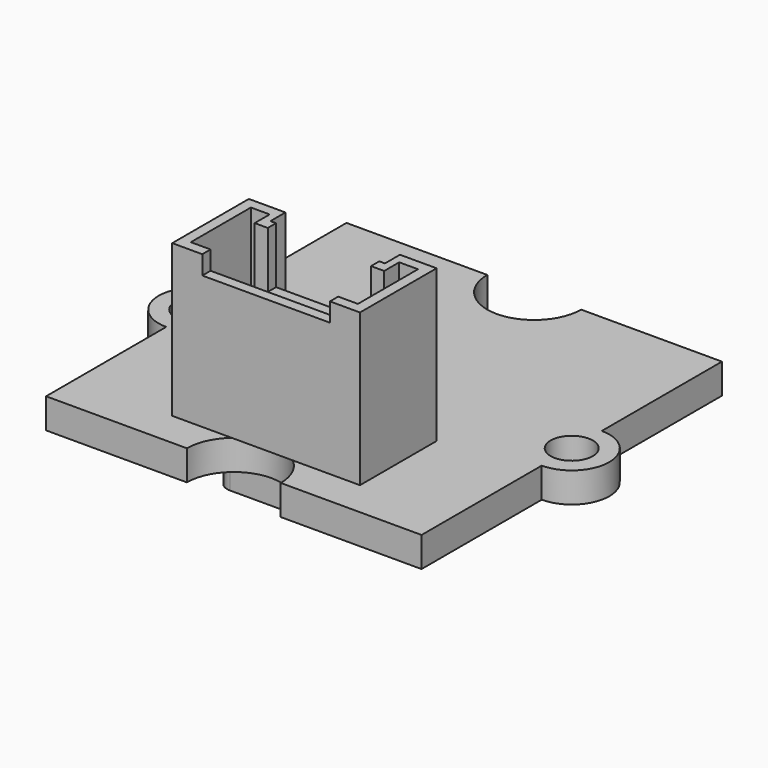
from build123d import *

# Parameters (mm, degrees)
PAD_DEPTH               = 1.6
SKETCH001_R             = 1.125
POCKET_DEPTH            = 1.601
PAD005_DEPTH            = 8.1
POCKET003_DEPTH         = 7
SKETCH010_W             = 6.8
SKETCH010_H             = 5
POCKET004_DEPTH         = 1
SKETCH011_W             = 5.5
SKETCH011_H             = 3
POCKET005_DEPTH         = 3
PAD006_DEPTH            = 4
PAD007_DEPTH            = 3.4
BODY005_PLACEMENT_ANGLE = 180


with BuildPart() as obj1:
    # Sketch → Pad (new body)
    with BuildSketch(Plane.XY):
        with BuildLine():
            Line((-10, 10), (-2.5, 10))
            ThreePointArc((-2.5, 10), (0, 7.5), (2.5, 10))
            Line((2.5, 10), (10, 10))
            Line((10, 10), (10, 2))
            ThreePointArc((10, -2), (12, 0), (10, 2))
            Line((10, -2), (10, -10))
            Line((10, -10), (2.5, -10))
            ThreePointArc((2.5, -10), (0, -7.5), (-2.5, -10))
            Line((-2.5, -10), (-10, -10))
            Line((-10, -10), (-10, -2))
            ThreePointArc((-10, 2), (-12, 0), (-10, -2))
            Line((-10, 10), (-10, 2))
        make_face()
    extrude(amount=PAD_DEPTH)

    # Sketch001 → Pocket (cut, through all)
    with BuildSketch(Plane.XY):
        with Locations((-10, 0)):
            Circle(SKETCH001_R)
        with Locations((10, 0)):
            Circle(SKETCH001_R)
    extrude(amount=POCKET_DEPTH, mode=Mode.SUBTRACT)


with BuildPart() as obj2:
    # Sketch008 → Pad005 (new body)
    with BuildSketch(Plane.XY):
        Polygon((-5, 0), (-3.05, 0), (-3.05, 1), (3.05, 1), (3.05, 0), (5, 0), (5, 5.1), (-5, 5.1), align=None)
    extrude(amount=PAD005_DEPTH)

    # Sketch009 (on Face10 of Pad005) → Pocket003 (cut)
    with BuildSketch(Plane.XY.offset(8.1)):
        Polygon((-4.45, 0.55), (-3.45, 0.55), (-3.45, 1.55), (3.45, 1.55), (3.45, 0.55), (4.45, 0.55), (4.45, 4.55), (-4.45, 4.55), align=None)
    extrude(amount=-POCKET003_DEPTH, mode=Mode.SUBTRACT)

    # Sketch010 (on Face5 of Pocket003) → Pocket004 (cut)
    with BuildSketch(Plane.XY.offset(8.1)):
        with Locations((0, 5.5)):
            Rectangle(SKETCH010_W, SKETCH010_H)
    extrude(amount=-POCKET004_DEPTH, mode=Mode.SUBTRACT)

    # Sketch011 (on Face5 of Pocket004) → Pocket005 (cut)
    with BuildSketch(Plane.XY.offset(8.1)):
        with Locations((0, 1.5)):
            Rectangle(SKETCH011_W, SKETCH011_H)
    extrude(amount=-POCKET005_DEPTH, mode=Mode.SUBTRACT)

    # Sketch012 (on Face26 of Pocket005) → Pad006 (join)
    with BuildSketch(Plane.XY.offset(1.1)):
        with BuildLine():
            ThreePointArc((-3.4, 3.25), (-3.65, 3), (-3.4, 2.75))
            Line((-3.4, 2.75), (3.4, 2.75))
            ThreePointArc((3.4, 2.75), (3.65, 3), (3.4, 3.25))
            Line((-3.4, 3.25), (3.4, 3.25))
        make_face()
    extrude(amount=PAD006_DEPTH)

    # Sketch013 → Pad007 (join)
    with BuildSketch(Plane.XY):
        with BuildLine():
            ThreePointArc((-3, 3.75), (-3.75, 3), (-3, 2.25))
            Line((-3, 2.25), (3, 2.25))
            ThreePointArc((3, 2.25), (3.75, 3), (3, 3.75))
            Line((-3, 3.75), (3, 3.75))
        make_face()
    extrude(amount=-PAD007_DEPTH)


with BuildPart() as obj2_1:
    # Body005 placement: moved
    add(obj2.part.moved(Location((0.2, -3, 1.6))).rotate(Axis((0.2, -3, 1.6), (0, 0, 1)), BODY005_PLACEMENT_ANGLE))


solid = Compound([obj1.part, obj2_1.part])
